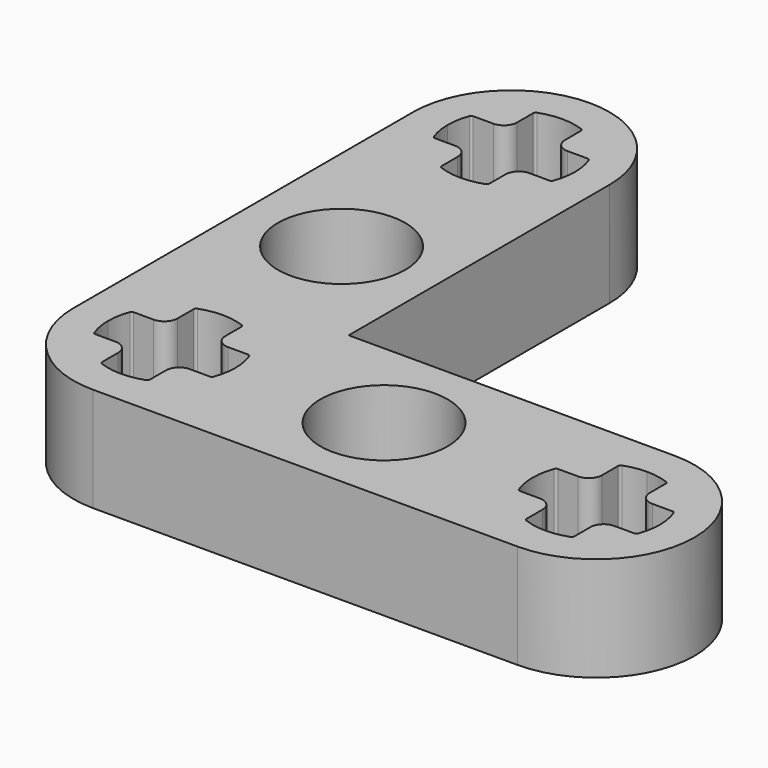
from build123d import *

# Parameters (mm, degrees)
F0_R     = 2.4
F1_DEPTH = 3.93
F2_R     = 3.705


with BuildPart() as f1:
    # F0 (on Top) → F1 (new body)
    with BuildSketch(Plane.XY):
        with BuildLine():
            Line((-7.319459, -8.152287), (-7.319459, 4.142713))
            ThreePointArc((-7.319459, 4.142713), (-11.024459, 7.847713), (-14.729459, 4.142713))
            Line((-14.729459, 4.142713), (-14.729459, -15.562287))
            Line((-14.729459, -15.562287), (4.975541, -15.562287))
            ThreePointArc((4.975541, -15.562287), (8.680541, -11.857287), (4.975541, -8.152287))
            Line((4.975541, -8.152287), (-7.319459, -8.152287))
        make_face()
        with BuildLine():
            ThreePointArc((-8.624459, -11.857287), (-8.662221, -12.281351), (-8.774317, -12.69207))
            ThreePointArc((-8.774317, -12.69207), (-8.810969, -12.739379), (-8.868073, -12.757287))
            Line((-8.868073, -12.757287), (-9.624459, -12.757287))
            ThreePointArc((-9.624459, -12.757287), (-9.978012, -12.903734), (-10.124459, -13.257287))
            Line((-10.124459, -13.257287), (-10.124459, -14.013673))
            ThreePointArc((-10.124459, -14.013673), (-10.142367, -14.070777), (-10.189676, -14.107429))
            ThreePointArc((-10.189676, -14.107429), (-11.024459, -14.257287), (-11.859241, -14.107429))
            ThreePointArc((-11.859241, -14.107429), (-11.906551, -14.070777), (-11.924459, -14.013673))
            Line((-11.924459, -14.013673), (-11.924459, -13.257287))
            ThreePointArc((-11.924459, -13.257287), (-12.070905, -12.903734), (-12.424459, -12.757287))
            Line((-12.424459, -12.757287), (-13.180845, -12.757287))
            ThreePointArc((-13.180845, -12.757287), (-13.237949, -12.739379), (-13.274601, -12.69207))
            ThreePointArc((-13.274601, -12.69207), (-13.386697, -12.281351), (-13.424459, -11.857287))
            ThreePointArc((-13.424459, -11.857287), (-13.386697, -11.433224), (-13.274601, -11.022505))
            ThreePointArc((-13.274601, -11.022505), (-13.237949, -10.975195), (-13.180845, -10.957287))
            Line((-13.180845, -10.957287), (-12.424459, -10.957287))
            ThreePointArc((-12.424459, -10.957287), (-12.070905, -10.810841), (-11.924459, -10.457287))
            Line((-11.924459, -10.457287), (-11.924459, -9.700901))
            ThreePointArc((-11.924459, -9.700901), (-11.906551, -9.643797), (-11.859241, -9.607145))
            ThreePointArc((-11.859241, -9.607145), (-11.024459, -9.457287), (-10.189676, -9.607145))
            ThreePointArc((-10.189676, -9.607145), (-10.142367, -9.643797), (-10.124459, -9.700901))
            Line((-10.124459, -9.700901), (-10.124459, -10.457287))
            ThreePointArc((-10.124459, -10.457287), (-9.978012, -10.810841), (-9.624459, -10.957287))
            Line((-9.624459, -10.957287), (-8.868073, -10.957287))
            ThreePointArc((-8.868073, -10.957287), (-8.810969, -10.975195), (-8.774317, -11.022505))
            ThreePointArc((-8.774317, -11.022505), (-8.662221, -11.433224), (-8.624459, -11.857287))
        make_face(mode=Mode.SUBTRACT)
        with Locations((-3.024459, -11.857287)):
            Circle(F0_R, mode=Mode.SUBTRACT)
        with BuildLine():
            ThreePointArc((5.810324, -14.107429), (5.399605, -14.219526), (4.975541, -14.257287))
            ThreePointArc((4.975541, -14.257287), (4.551478, -14.219526), (4.140759, -14.107429))
            ThreePointArc((4.140759, -14.107429), (4.093449, -14.070777), (4.075541, -14.013673))
            Line((4.075541, -14.013673), (4.075541, -13.257287))
            ThreePointArc((4.075541, -13.257287), (3.929095, -12.903734), (3.575541, -12.757287))
            Line((3.575541, -12.757287), (2.819155, -12.757287))
            ThreePointArc((2.819155, -12.757287), (2.762051, -12.739379), (2.725399, -12.69207))
            ThreePointArc((2.725399, -12.69207), (2.575541, -11.857287), (2.725399, -11.022505))
            ThreePointArc((2.725399, -11.022505), (2.762051, -10.975195), (2.819155, -10.957287))
            Line((2.819155, -10.957287), (3.575541, -10.957287))
            ThreePointArc((3.575541, -10.957287), (3.929095, -10.810841), (4.075541, -10.457287))
            Line((4.075541, -10.457287), (4.075541, -9.700901))
            ThreePointArc((4.075541, -9.700901), (4.093449, -9.643797), (4.140759, -9.607145))
            ThreePointArc((4.140759, -9.607145), (4.551478, -9.495049), (4.975541, -9.457287))
            ThreePointArc((4.975541, -9.457287), (5.399605, -9.495049), (5.810324, -9.607145))
            ThreePointArc((5.810324, -9.607145), (5.857633, -9.643797), (5.875541, -9.700901))
            Line((5.875541, -9.700901), (5.875541, -10.457287))
            ThreePointArc((5.875541, -10.457287), (6.021988, -10.810841), (6.375541, -10.957287))
            Line((6.375541, -10.957287), (7.131927, -10.957287))
            ThreePointArc((7.131927, -10.957287), (7.189031, -10.975195), (7.225683, -11.022505))
            ThreePointArc((7.225683, -11.022505), (7.375541, -11.857287), (7.225683, -12.69207))
            ThreePointArc((7.225683, -12.69207), (7.189031, -12.739379), (7.131927, -12.757287))
            Line((7.131927, -12.757287), (6.375541, -12.757287))
            ThreePointArc((6.375541, -12.757287), (6.021988, -12.903734), (5.875541, -13.257287))
            Line((5.875541, -13.257287), (5.875541, -14.013673))
            ThreePointArc((5.875541, -14.013673), (5.857633, -14.070777), (5.810324, -14.107429))
        make_face(mode=Mode.SUBTRACT)
        with Locations((-11.024459, -3.857287)):
            Circle(F0_R, mode=Mode.SUBTRACT)
        with BuildLine():
            ThreePointArc((-12.424459, 5.042713), (-12.070905, 5.189159), (-11.924459, 5.542713))
            Line((-11.924459, 5.542713), (-11.924459, 6.299099))
            ThreePointArc((-11.924459, 6.299099), (-11.906551, 6.356203), (-11.859241, 6.392855))
            ThreePointArc((-11.859241, 6.392855), (-11.024459, 6.542713), (-10.189676, 6.392855))
            ThreePointArc((-10.189676, 6.392855), (-10.142367, 6.356203), (-10.124459, 6.299099))
            Line((-10.124459, 6.299099), (-10.124459, 5.542713))
            ThreePointArc((-10.124459, 5.542713), (-9.978012, 5.189159), (-9.624459, 5.042713))
            Line((-9.624459, 5.042713), (-8.868073, 5.042713))
            ThreePointArc((-8.868073, 5.042713), (-8.810969, 5.024805), (-8.774317, 4.977495))
            ThreePointArc((-8.774317, 4.977495), (-8.662221, 4.566776), (-8.624459, 4.142713))
            ThreePointArc((-8.624459, 4.142713), (-8.662221, 3.718649), (-8.774317, 3.30793))
            ThreePointArc((-8.774317, 3.30793), (-8.810969, 3.260621), (-8.868073, 3.242713))
            Line((-8.868073, 3.242713), (-9.624459, 3.242713))
            ThreePointArc((-9.624459, 3.242713), (-9.978012, 3.096266), (-10.124459, 2.742713))
            Line((-10.124459, 2.742713), (-10.124459, 1.986327))
            ThreePointArc((-10.124459, 1.986327), (-10.142367, 1.929223), (-10.189676, 1.892571))
            ThreePointArc((-10.189676, 1.892571), (-11.024459, 1.742713), (-11.859241, 1.892571))
            ThreePointArc((-11.859241, 1.892571), (-11.906551, 1.929223), (-11.924459, 1.986327))
            Line((-11.924459, 1.986327), (-11.924459, 2.742713))
            ThreePointArc((-11.924459, 2.742713), (-12.070905, 3.096266), (-12.424459, 3.242713))
            Line((-12.424459, 3.242713), (-13.180845, 3.242713))
            ThreePointArc((-13.180845, 3.242713), (-13.237949, 3.260621), (-13.274601, 3.30793))
            ThreePointArc((-13.274601, 3.30793), (-13.386697, 3.718649), (-13.424459, 4.142713))
            ThreePointArc((-13.424459, 4.142713), (-13.386697, 4.566776), (-13.274601, 4.977495))
            ThreePointArc((-13.274601, 4.977495), (-13.237949, 5.024805), (-13.180845, 5.042713))
            Line((-13.180845, 5.042713), (-12.424459, 5.042713))
        make_face(mode=Mode.SUBTRACT)
    extrude(amount=F1_DEPTH)

    # F2
    f2_edges = [f1.edges().sort_by_distance(p)[0] for p in [
        (-14.729459, -15.562287, 1.965),
    ]]
    fillet(f2_edges, radius=F2_R)


solid = f1.part
